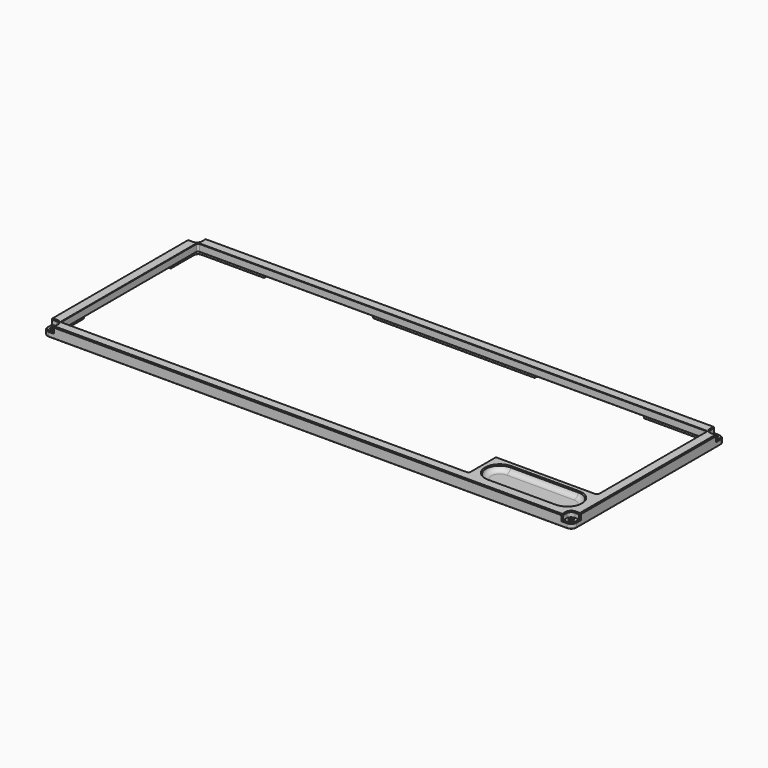
from build123d import *

# Parameters (mm, degrees)
PAD005_DEPTH      = 3
PAD005_DEPTH_BACK = 3
FILLET011_R       = 3
SKETCH011_W       = 297.75
SKETCH011_H       = 107.25
PAD003_DEPTH      = 6
POCKET006_DEPTH   = 1.8
FILLET005_R       = 2
FILLET006_R       = 1
SKETCH013_R       = 1.1
POCKET007_DEPTH   = 10
POCKET008_DEPTH   = 3
FILLET007_R       = 3
CHAMFER_SIZE      = 0.5
CHAMFER004_SIZE   = 0.2
CHAMFER007_SIZE   = 0.5


with BuildPart() as body005:
    # Sketch020 → Pad005 (new body, two sides)
    with BuildSketch(Plane.XY.offset(19.4)) as pad005_sk:
        with BuildLine():
            ThreePointArc((97, -32.075), (89.225, -39.85), (97, -47.625))
            Line((97, -47.625), (135.1, -47.625))
            ThreePointArc((135.1, -47.625), (142.875, -39.85), (135.1, -32.075))
            Line((135.1, -32.075), (97, -32.075))
        make_face()
    extrude(amount=PAD005_DEPTH)
    extrude(pad005_sk.sketch, amount=-PAD005_DEPTH_BACK)

    # Fillet011
    fillet011_edges = [body005.edges().sort_by_distance(p)[0] for p in [
        (89.225, -39.85, 16.4),
        (116.05, -47.625, 16.4),
        (142.875, -39.85, 16.4),
        (116.05, -32.075, 16.4),
    ]]
    fillet(fillet011_edges, radius=FILLET011_R)


with BuildPart() as top_frame:
    # Sketch011 → Pad003 (new body)
    with BuildSketch(Plane.XY.offset(13.4)):
        Rectangle(SKETCH011_W, SKETCH011_H)
        Polygon((143.375, 48.125), (-143.375, 48.125), (-143.375, -48.125), (86.225, -48.125), (86.225, -29.075), (143.375, -29.075), align=None, mode=Mode.SUBTRACT)
    extrude(amount=PAD003_DEPTH)

    # Sketch012 (on Face11 of Pad003) → Pocket006 (cut)
    with BuildSketch(Plane(origin=(0, 0, 13.4), x_dir=(1, 0, 0), z_dir=(0, 0, -1))):
        Polygon((87.225, 49.125), (87.225, 30.075), (144.375, 30.075), (144.375, 11.025), (147.375, 11.025), (147.375, -31.075), (144.375, -31.075), (144.375, -49.125), (106.775, -49.125), (106.775, -52.125), (45.625, -52.125), (45.625, -49.125), (-45.625, -49.125), (-45.625, -52.125), (-106.775, -52.125), (-106.775, -49.125), (-144.375, -49.125), (-144.375, -30.575), (-147.375, -30.575), (-147.375, 30.575), (-144.375, 30.575), (-144.375, 49.125), (-73.9375, 49.125), (-73.9375, 52.125), (49.125, 52.125), (49.125, 49.125), align=None)
    extrude(amount=-POCKET006_DEPTH, mode=Mode.SUBTRACT)

    # Fillet005
    fillet005_edges = [top_frame.edges().sort_by_distance(p)[0] for p in [
        (106.775, 52.125, 14.3),
        (144.375, 49.125, 14.3),
        (45.625, 52.125, 14.3),
        (-45.625, 52.125, 14.3),
        (-106.775, 52.125, 14.3),
        (-144.375, 49.125, 14.3),
        (-147.375, 30.575, 14.3),
        (-147.375, -30.575, 14.3),
        (-144.375, -49.125, 14.3),
        (-73.9375, -52.125, 14.3),
        (49.125, -52.125, 14.3),
        (87.225, -49.125, 14.3),
        (87.225, -30.075, 14.3),
        (144.375, -30.075, 14.3),
        (147.375, -11.025, 14.3),
        (147.375, 31.075, 14.3),
    ]]
    fillet(fillet005_edges, radius=FILLET005_R)

    # Fillet006
    fillet006_edges = [top_frame.edges().sort_by_distance(p)[0] for p in [
        (-143.375, 48.125, 17.3),
        (86.225, -48.125, 17.3),
        (143.375, -29.075, 17.3),
        (-143.375, -48.125, 17.3),
        (143.375, 48.125, 17.3),
        (86.225, -29.075, 17.3),
    ]]
    fillet(fillet006_edges, radius=FILLET006_R)

    # Sketch013 (on Face56 of Fillet006) → Pocket007 (cut)
    with BuildSketch(Plane.XY.offset(19.4)):
        with Locations((-145.875, 50.625)):
            Circle(SKETCH013_R)
        with Locations((145.875, 50.625)):
            Circle(SKETCH013_R)
        with Locations((145.875, -50.625)):
            Circle(SKETCH013_R)
        with Locations((-145.875, -50.625)):
            Circle(SKETCH013_R)
    extrude(amount=-POCKET007_DEPTH, mode=Mode.SUBTRACT)

    # Sketch014 (on Face56 of Pocket007) → Pocket008 (cut)
    with BuildSketch(Plane.XY.offset(19.4)):
        with BuildLine():
            ThreePointArc((-145.875, 48.125), (-144.107233, 48.857233), (-143.375, 50.625))
            Line((-143.375, 50.625), (-143.375, 53.625))
            Line((-148.875, 53.625), (-143.375, 53.625))
            Line((-148.875, 48.125), (-148.875, 53.625))
            Line((-145.875, 48.125), (-148.875, 48.125))
        make_face()
        with BuildLine():
            ThreePointArc((143.375, 50.625), (144.107233, 48.857233), (145.875, 48.125))
            Line((145.875, 48.125), (148.875, 48.125))
            Line((148.875, 53.625), (148.875, 48.125))
            Line((143.375, 53.625), (148.875, 53.625))
            Line((143.375, 50.625), (143.375, 53.625))
        make_face()
        with BuildLine():
            ThreePointArc((-143.375, -50.625), (-144.107233, -48.857233), (-145.875, -48.125))
            Line((-145.875, -48.125), (-148.875, -48.125))
            Line((-148.875, -48.125), (-148.875, -53.625))
            Line((-148.875, -53.625), (-143.375, -53.625))
            Line((-143.375, -50.625), (-143.375, -53.625))
        make_face()
        with BuildLine():
            ThreePointArc((145.875, -48.125), (144.107233, -48.857233), (143.375, -50.625))
            Line((143.375, -50.625), (143.375, -53.625))
            Line((143.375, -53.625), (148.875, -53.625))
            Line((148.875, -48.125), (148.875, -53.625))
            Line((145.875, -48.125), (148.875, -48.125))
        make_face()
    extrude(amount=-POCKET008_DEPTH, mode=Mode.SUBTRACT)

    # Fillet007
    fillet007_edges = [top_frame.edges().sort_by_distance(p)[0] for p in [
        (-148.875, 53.625, 14.9),
        (-148.875, -53.625, 14.9),
        (148.875, 53.625, 14.9),
        (148.875, -53.625, 14.9),
    ]]
    fillet(fillet007_edges, radius=FILLET007_R)

    # Chamfer
    chamfer_edges = [top_frame.edges().sort_by_distance(p)[0] for p in [
        (-147.99632, -52.74632, 16.4),
        (-148.875, -48.125, 17.9),
        (-143.375, -53.625, 17.9),
        (-144.107233, -48.857233, 19.4),
        (0, -53.625, 19.4),
        (-148.875, 0, 19.4),
        (-144.107233, 48.857233, 19.4),
        (0, 53.625, 19.4),
        (-147.99632, 52.74632, 16.4),
        (-148.875, 48.125, 17.9),
        (-143.375, 53.625, 17.9),
        (143.375, 53.625, 17.9),
        (147.99632, 52.74632, 16.4),
        (144.107233, 48.857233, 19.4),
        (148.875, 48.125, 17.9),
        (144.107233, -48.857233, 19.4),
        (148.875, -48.125, 17.9),
        (147.99632, -52.74632, 16.4),
        (148.875, 0, 19.4),
        (143.375, -53.625, 17.9),
    ]]
    chamfer(chamfer_edges, length=CHAMFER_SIZE)

    # Chamfer004
    chamfer004_edges = [top_frame.edges().sort_by_distance(p)[0] for p in [
        (-146.975, 50.625, 16.4),
        (-146.975, -50.625, 16.4),
        (144.775, 50.625, 16.4),
        (144.775, -50.625, 16.4),
        (86.517893, -29.367893, 19.4),
        (148.875, 0, 13.4),
        (147.99632, -52.74632, 13.4),
        (147.99632, 52.74632, 13.4),
        (0, -53.625, 13.4),
        (0, 53.625, 13.4),
        (-147.99632, -52.74632, 13.4),
        (-147.99632, 52.74632, 13.4),
        (-148.875, 0, 13.4),
        (-146.975, -50.625, 13.4),
        (144.775, -50.625, 13.4),
        (67.175, -49.125, 13.4),
        (86.639214, -48.539214, 13.4),
        (49.125, -49.625, 13.4),
        (87.225, -39.6, 13.4),
        (48.539214, -51.539214, 13.4),
        (87.810786, -30.660786, 13.4),
        (-12.40625, -52.125, 13.4),
        (115.8, -30.075, 13.4),
        (-73.351714, -51.539214, 13.4),
        (143.789214, -29.489214, 13.4),
        (-73.9375, -49.625, 13.4),
        (144.375, -19.55, 13.4),
        (-108.15625, -49.125, 13.4),
        (144.875, -11.025, 13.4),
        (-143.789214, -48.539214, 13.4),
        (146.789214, -10.439214, 13.4),
        (-144.375, -38.85, 13.4),
        (147.375, 10.025, 13.4),
        (-144.875, -30.575, 13.4),
        (146.789214, 30.489214, 13.4),
        (-146.789214, -29.989214, 13.4),
        (144.875, 31.075, 13.4),
        (-147.375, 0, 13.4),
        (144.375, 39.1, 13.4),
        (-146.789214, 29.989214, 13.4),
        (143.789214, 48.539214, 13.4),
        (-144.875, 30.575, 13.4),
        (124.575, 49.125, 13.4),
        (-144.375, 38.85, 13.4),
        (106.775, 49.625, 13.4),
        (-143.789214, 48.539214, 13.4),
        (106.189214, 51.539214, 13.4),
        (-124.575, 49.125, 13.4),
        (76.2, 52.125, 13.4),
        (-106.775, 49.625, 13.4),
        (46.210786, 51.539214, 13.4),
        (-106.189214, 51.539214, 13.4),
        (45.625, 49.625, 13.4),
        (-76.2, 52.125, 13.4),
        (0, 49.125, 13.4),
        (-46.210786, 51.539214, 13.4),
        (-45.625, 49.625, 13.4),
        (-146.975, 50.625, 13.4),
        (144.775, 50.625, 13.4),
        (-144.375, 30.575, 14.3),
        (-144.375, -30.575, 14.3),
        (-73.9375, -49.125, 14.3),
        (49.125, -49.125, 14.3),
        (144.375, -11.025, 14.3),
        (144.375, 31.075, 14.3),
        (106.775, 49.125, 14.3),
        (45.625, 49.125, 14.3),
        (-106.775, 49.125, 14.3),
        (-45.625, 49.125, 14.3),
        (0, 48.125, 15.2),
    ]]
    chamfer(chamfer004_edges, length=CHAMFER004_SIZE)

    # Boolean001: cut Body005
    add(body005.part, mode=Mode.SUBTRACT)

    # Chamfer007
    chamfer007_edges = [top_frame.edges().sort_by_distance(p)[0] for p in [
        (116.05, -32.075, 19.4),
    ]]
    chamfer(chamfer007_edges, length=CHAMFER007_SIZE)


solid = top_frame.part
